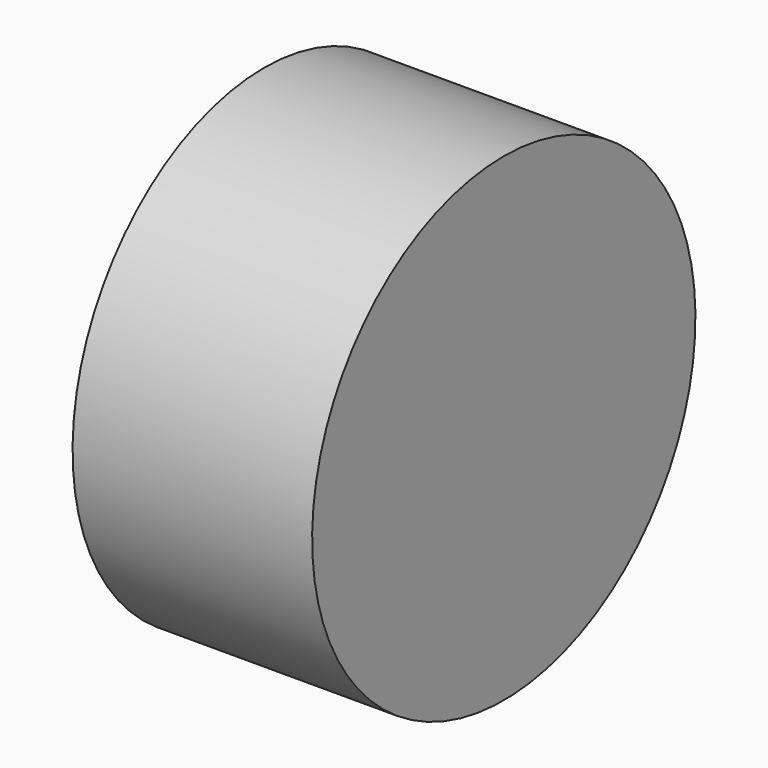
from build123d import *

# Parameters (mm, degrees)
F0_W     = 15.24
F0_H     = 15.24
F2_R     = 10.668
F3_DEPTH = 12.7


with BuildPart() as f1:
    # F0 (on Front) → F1 (revolve)
    with BuildSketch(Plane.XZ):
        with Locations((7.62, 7.62)):
            Rectangle(F0_W, F0_H)
    revolve(axis=Axis((7.62, 0, 0), (1, 0, 0)))

    # F2 (on face) → F3 (cut)
    with BuildSketch(Plane(origin=(0, 0, 0), x_dir=(0, -1, 0), z_dir=(-1, 0, 0))):
        Circle(F2_R)
    extrude(amount=-F3_DEPTH, mode=Mode.SUBTRACT)


solid = f1.part
